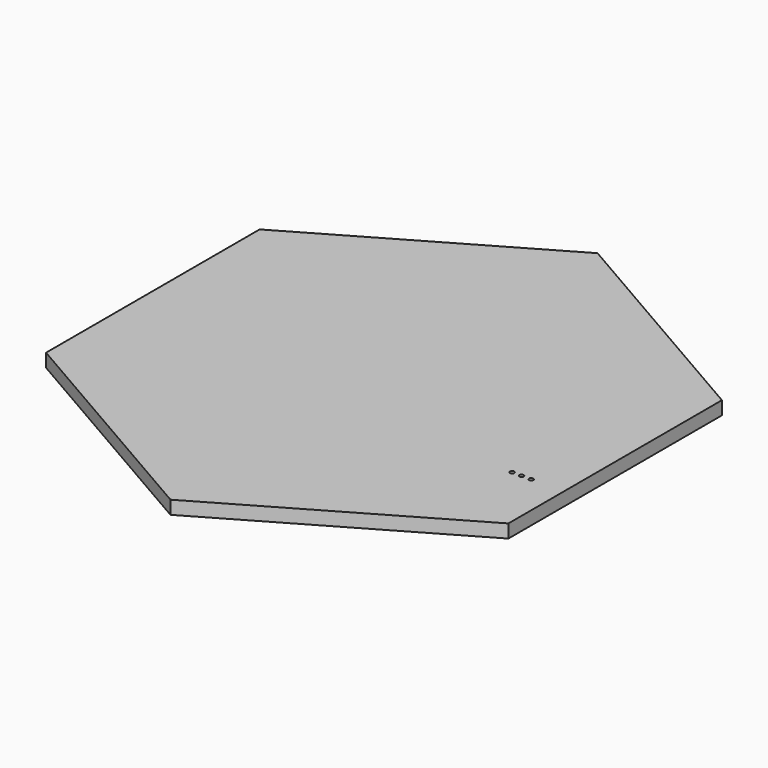
from build123d import *

# Parameters (mm, degrees)
PAD_DEPTH    = 5
POCKET_DEPTH = 3
SKETCH004_R  = 0.8
HOLE_DEPTH   = 25


with BuildPart() as part:
    # Sketch → Pad (new body)
    with BuildSketch(Plane.XY):
        Polygon((86.60254, -50), (86.60254, 50), (0, 100), (-86.60254, 50), (-86.60254, -50), (0, -100), align=None)
    extrude(amount=PAD_DEPTH)

    # Sketch003 (on Face7 of Pad) → Pocket (cut)
    with BuildSketch(Plane(origin=(0, 0, 0), x_dir=(1, 0, 0), z_dir=(0, 0, -1))):
        with BuildLine():
            ThreePointArc((82.208138, 20.772506), (85.73254, 24), (82.208138, 27.227494))
            Line((67.51225, 25.932512), (82.208138, 27.227494))
            ThreePointArc((67.51225, 25.932512), (65.74254, 24), (67.51225, 22.067488))
            Line((67.51225, 22.067488), (82.208138, 20.772506))
        make_face()
    extrude(amount=-POCKET_DEPTH, mode=Mode.SUBTRACT)

    # Sketch004 (on Face13 of Pocket) → Hole (cut)
    with BuildSketch(Plane(origin=(0, 0, 3), x_dir=(1, 0, 0), z_dir=(0, 0, -1))):
        with Locations((67.21254, 24)):
            Circle(SKETCH004_R)
        with Locations((70.78254, 24)):
            Circle(SKETCH004_R)
        with Locations((74.35254, 24)):
            Circle(SKETCH004_R)
    extrude(amount=-HOLE_DEPTH, mode=Mode.SUBTRACT)


solid = part.part
